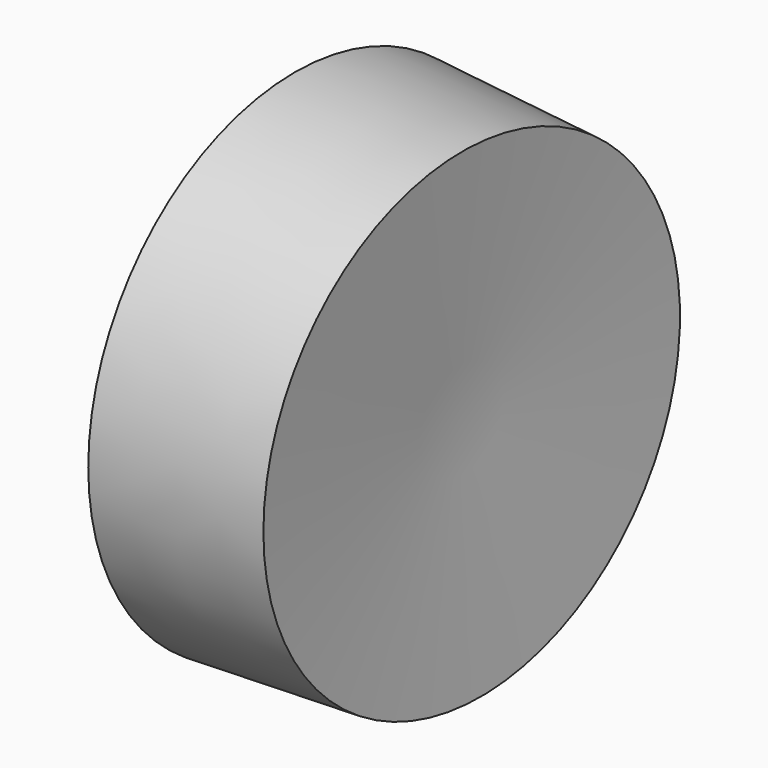
from build123d import *


with BuildPart() as f1:
    # F0 (on Top) → F1 (revolve)
    with BuildSketch(Plane.XY):
        with BuildLine():
            ThreePointArc((-38.3825488389, 61.6531297565), (-41.9382364536, 56.553998962), (-38.3825488389, 51.4548681676))
            Line((-38.3825488389, 51.4548681676), (-21.676680397, 45.3007204465))
            Line((-21.676680397, 45.3007204465), (-41.1638952792, 40.329489857))
            Line((-41.1638952792, 40.329489857), (-22.992445156, 30.3166527301))
            Line((-22.992445156, 30.3166527301), (-42.0910082757, 26.0519236326))
            Line((-42.0910082757, 26.0519236326), (-23.7341374159, 20.1183892787))
            Line((-23.7341374159, 20.1183892787), (-40.9784689546, 13.6285861954))
            Line((-40.9784689546, 13.6285861954), (-22.992445156, 5.6553995237))
            Line((-22.992445156, 5.6553995237), (-42.647279799, 0))
            Line((-42.647279799, 0), (0, 0))
            Line((0, 0), (0, 59.6134774387))
            Line((0, 59.6134774387), (-38.3825488389, 61.6531297565))
        make_face()
    revolve(axis=Axis((-19.1912744194, 60.6333035976, 0), (0.9985910484, -0.0530652239, 0)))


solid = f1.part
